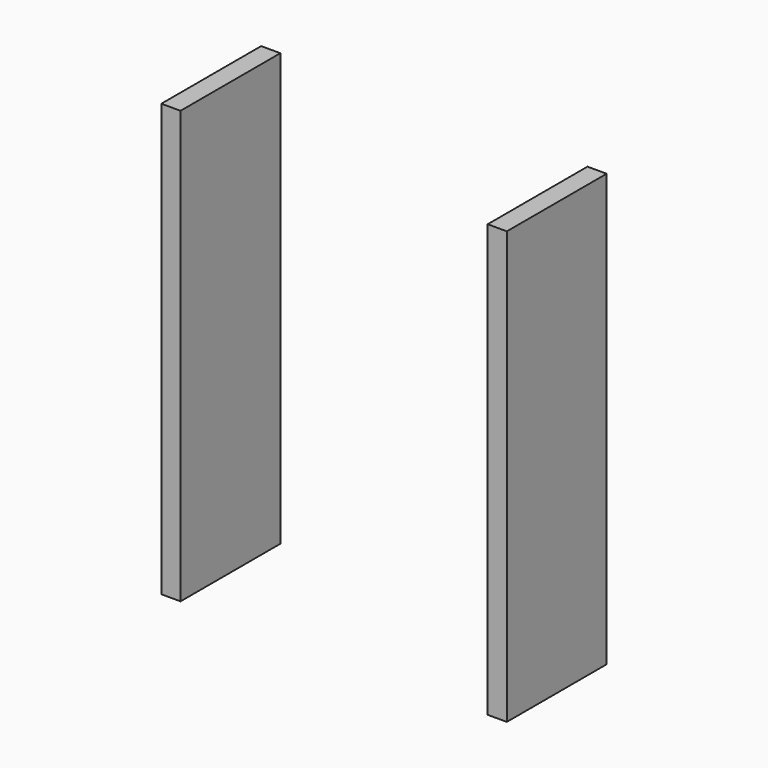
from build123d import *

# Parameters (mm, degrees)
F0_W     = 13
F0_H     = 45
F1_DEPTH = 1


with BuildPart() as f1:
    # F0 (on Right) → F1 (new body, symmetric)
    with BuildSketch(Plane.YZ):
        Rectangle(F0_W, F0_H)
    extrude(amount=F1_DEPTH, both=True)


with BuildPart() as f2_1:
    # F2: copy of F1
    add(f1.part.moved(Location((-34, 0, 0))))


solid = Compound([f1.part, f2_1.part])
